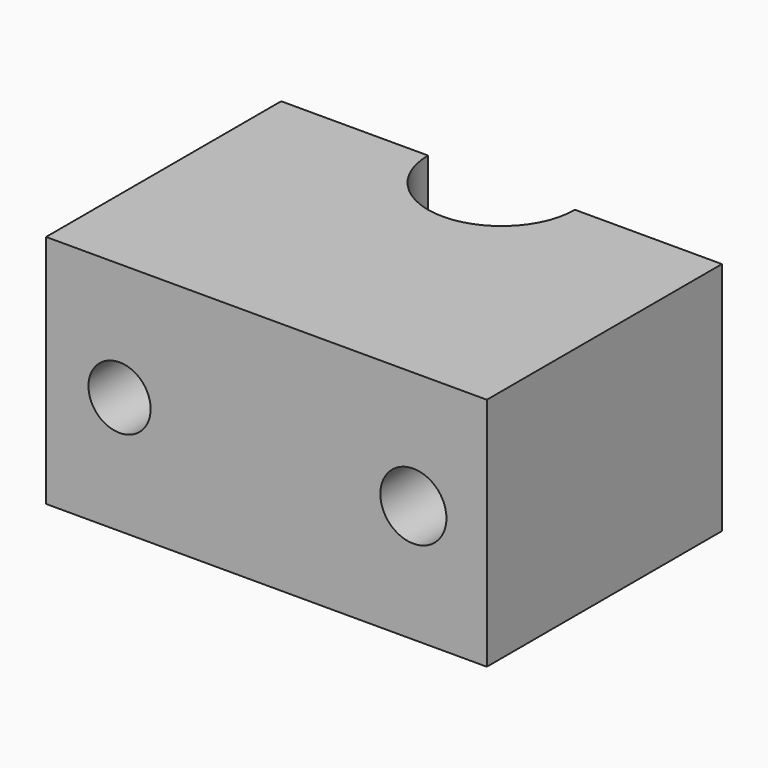
from build123d import *

# Parameters (mm, degrees)
SKETCH_W        = 30
SKETCH_H        = 16
PAD_DEPTH       = 20
SKETCH001_R     = 5
POCKET_DEPTH    = 16.001
SKETCH002_R     = 2.117093
SKETCH002_R_2   = 2.25
POCKET001_DEPTH = 20.001


with BuildPart() as part:
    # Sketch → Pad (new body)
    with BuildSketch(Plane.XZ):
        Rectangle(SKETCH_W, SKETCH_H)
    extrude(amount=PAD_DEPTH)

    # Sketch001 → Pocket (cut, through all)
    with BuildSketch(Plane(origin=(0, 0, 8), x_dir=(-1, 0, 0), z_dir=(0, 0, 1))):
        Circle(SKETCH001_R)
    extrude(amount=-POCKET_DEPTH, mode=Mode.SUBTRACT)

    # Sketch002 → Pocket001 (cut, through all)
    with BuildSketch(Plane(origin=(0, 0, 0), x_dir=(1, 0, 0), z_dir=(0, 1, 0))):
        with Locations((-10, 0)):
            Circle(SKETCH002_R)
        with Locations((10, 0)):
            Circle(SKETCH002_R_2)
    extrude(amount=-POCKET001_DEPTH, mode=Mode.SUBTRACT)


solid = part.part
